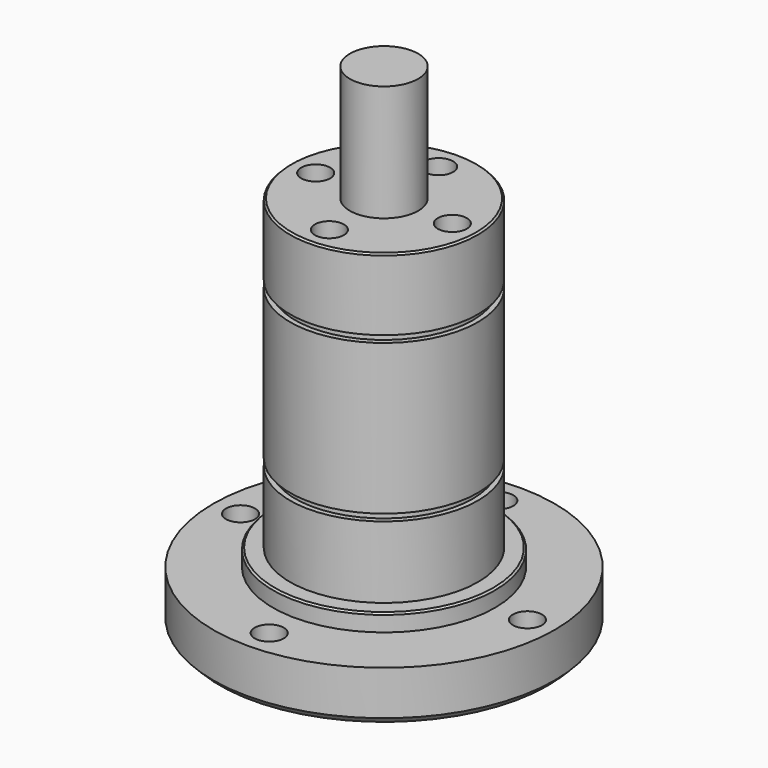
from build123d import *

# Parameters (mm, degrees)
F0_R      = 50
F1_DEPTH  = 15
F2_R      = 32.5
F3_DEPTH  = 5
F4_R      = 27.5
F5_DEPTH  = 21
F6_R      = 26
F7_DEPTH  = 2
F8_R      = 27.5
F9_DEPTH  = 44
F10_R     = 26
F11_DEPTH = 2
F12_R     = 27.5
F13_DEPTH = 21
F14_R     = 10
F15_DEPTH = 34
F17_D     = 8.5
F19_D     = 8.5
F19_DEPTH = 27
F19_TIP   = 2.5536576309
F20_SIZE  = 2
F21_SIZE  = 0.5
F22_SIZE  = 0.5


with BuildPart() as f1:
    # F0 (on Top) → F1 (new body)
    with BuildSketch(Plane.XY):
        Circle(F0_R)
    extrude(amount=F1_DEPTH)

    # F2 (on face) → F3 (join)
    with BuildSketch(Plane.XY.offset(15)):
        Circle(F2_R)
    extrude(amount=F3_DEPTH)

    # F4 (on face) → F5 (join)
    with BuildSketch(Plane.XY.offset(20)):
        Circle(F4_R)
    extrude(amount=F5_DEPTH)

    # F6 (on face) → F7 (join)
    with BuildSketch(Plane.XY.offset(41)):
        Circle(F6_R)
    extrude(amount=F7_DEPTH)

    # F8 (on face) → F9 (join)
    with BuildSketch(Plane.XY.offset(43)):
        Circle(F8_R)
    extrude(amount=F9_DEPTH)

    # F10 (on face) → F11 (join)
    with BuildSketch(Plane.XY.offset(87)):
        Circle(F10_R)
    extrude(amount=F11_DEPTH)

    # F12 (on face) → F13 (join)
    with BuildSketch(Plane.XY.offset(89)):
        Circle(F12_R)
    extrude(amount=F13_DEPTH)

    # F14 (on face) → F15 (join)
    with BuildSketch(Plane.XY.offset(110)):
        Circle(F14_R)
    extrude(amount=F15_DEPTH)

    # F17 (through all)
    with Locations(Plane(origin=(0, 0, 0), x_dir=(1, 0, 0), z_dir=(0, 0, -1))):
        with Locations((0, 42), (42, 0), (0, -42), (-42, 0)):
            Hole(F17_D / 2)

    # F19
    with Locations(Plane.XY.offset(110)):
        with Locations((0, 20), (20, 0), (0, -20), (-20, 0)):
            Hole(F19_D / 2, depth=F19_DEPTH)
            with Locations((0, 0, -(F19_DEPTH + F19_TIP / 2))):  # 118° drill point
                Cone(0, F19_D / 2, F19_TIP, mode=Mode.SUBTRACT)

    # F20
    f20_edges = [f1.edges().sort_by_distance(p)[0] for p in [
        (-50, 0, 0),
    ]]
    chamfer(f20_edges, length=F20_SIZE)

    # F21
    f21_edges = [f1.edges().sort_by_distance(p)[0] for p in [
        (-32.5, 0, 20),
    ]]
    chamfer(f21_edges, length=F21_SIZE)

    # F22
    f22_edges = [f1.edges().sort_by_distance(p)[0] for p in [
        (-27.5, 0, 110),
    ]]
    chamfer(f22_edges, length=F22_SIZE)


solid = f1.part
